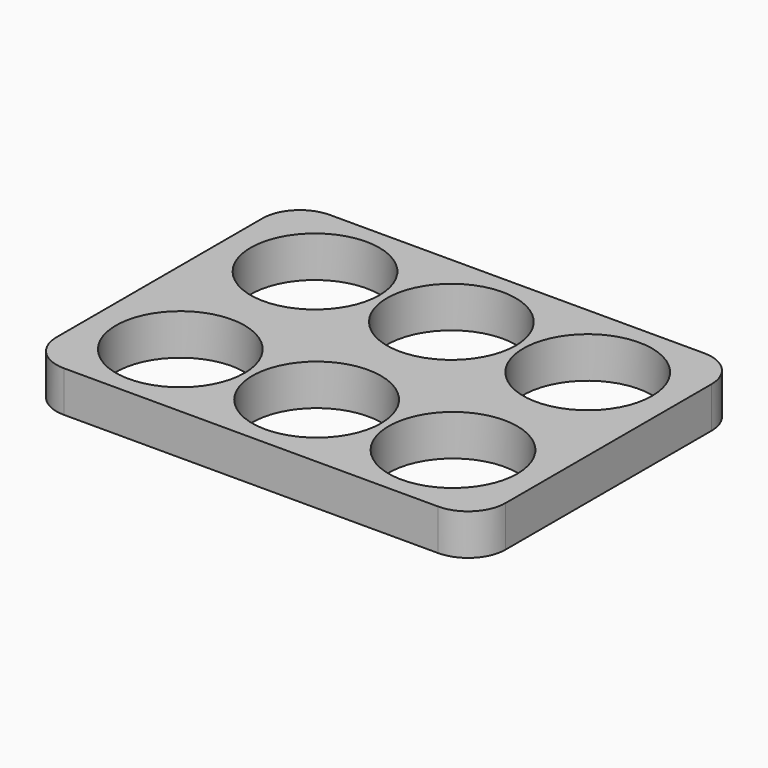
from build123d import *

# Parameters (mm, degrees)
F0_R     = 10.922
F1_DEPTH = 6.9596


with BuildPart() as f1:
    # F0 (on Top) → F1 (new body)
    with BuildSketch(Plane.XY):
        with BuildLine():
            Line((31.75, 0), (-31.75, 0))
            ThreePointArc((-31.75, 0), (-36.240128, -1.859872), (-38.1, -6.35))
            Line((-38.1, -6.35), (-38.1, -50.038))
            ThreePointArc((-38.1, -50.038), (-36.240128, -54.528128), (-31.75, -56.388))
            Line((-31.75, -56.388), (31.75, -56.388))
            ThreePointArc((31.75, -56.388), (36.240128, -54.528128), (38.1, -50.038))
            Line((38.1, -50.038), (38.1, -6.35))
            ThreePointArc((38.1, -6.35), (36.240128, -1.859872), (31.75, 0))
        make_face()
        with Locations((-23.1394, -42.4815)):
            Circle(F0_R, mode=Mode.SUBTRACT)
        with Locations((0, -42.4815)):
            Circle(F0_R, mode=Mode.SUBTRACT)
        with Locations((23.1394, -42.4815)):
            Circle(F0_R, mode=Mode.SUBTRACT)
        with Locations((-23.1394, -13.9065)):
            Circle(F0_R, mode=Mode.SUBTRACT)
        with Locations((0, -13.9065)):
            Circle(F0_R, mode=Mode.SUBTRACT)
        with Locations((23.1394, -13.9065)):
            Circle(F0_R, mode=Mode.SUBTRACT)
    extrude(amount=F1_DEPTH)


solid = f1.part
